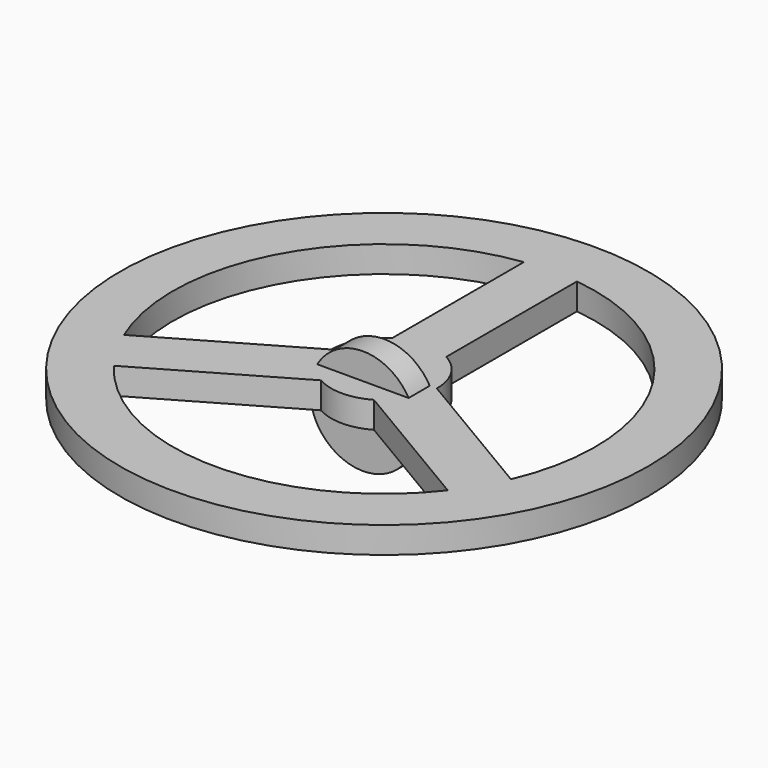
from build123d import *

# Parameters (mm, degrees)
F0_R     = 31.75
F0_R_2   = 2.38125
F1_DEPTH = 3.175
F2_R     = 6.35
F2_R_2   = 1.5875
F3_DEPTH = 3.175


with BuildPart() as f1:
    # F0 (on Top) → F1 (new body)
    with BuildSketch(Plane.XY):
        Circle(F0_R)
        with BuildLine():
            ThreePointArc((20.091456, -15.540058), (-0.119689, -25.399718), (-20.237017, -15.350021))
            Line((-20.237017, -15.350021), (-3.175, -5.499261))
            ThreePointArc((-3.175, -5.499261), (0, -6.35), (3.175, -5.499261))
            Line((3.175, -5.499261), (20.091456, -15.540058))
        make_face(mode=Mode.SUBTRACT)
        with BuildLine():
            Line((-3.329914, 25.18078), (-3.329914, 5.406864))
            ThreePointArc((-3.329914, 5.406864), (-5.543801, 3.096575), (-6.35, 0))
            Line((-6.35, 0), (-23.412017, -9.85076))
            ThreePointArc((-23.412017, -9.85076), (-22.035991, 12.632304), (-3.329914, 25.18078))
        make_face(mode=Mode.SUBTRACT)
        Circle(F0_R_2, mode=Mode.SUBTRACT)
        with BuildLine():
            Line((3.020086, 5.585837), (3.020086, 25.219815))
            ThreePointArc((3.020086, 25.219815), (22.017951, 12.66372), (23.317965, -10.07137))
            Line((23.317965, -10.07137), (6.35, 0))
            ThreePointArc((6.35, 0), (5.454358, 3.251534), (3.020086, 5.585837))
        make_face(mode=Mode.SUBTRACT)
    extrude(amount=F1_DEPTH)


with BuildPart() as f3:
    # F2 (on Front) → F3 (new body)
    with BuildSketch(Plane.XZ):
        Circle(F2_R)
        Circle(F2_R_2, mode=Mode.SUBTRACT)
    extrude(amount=F3_DEPTH)


solid = Compound([f1.part, f3.part])
